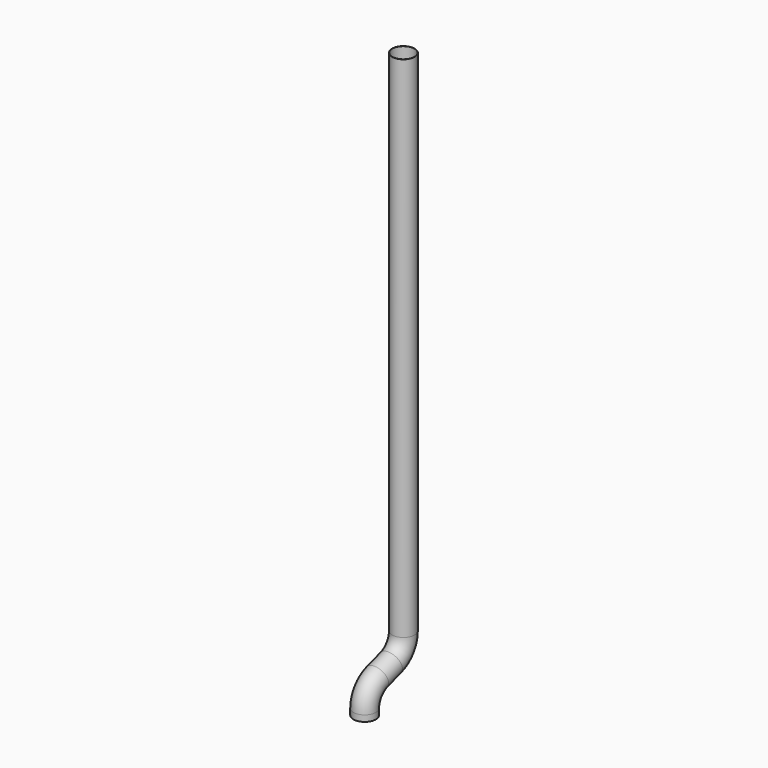
from build123d import *

# Parameters (mm, degrees)
F1_R   = 50
F1_R_2 = 49


with BuildPart() as f2:
    # F2: sweep along a path in F0
    with BuildLine(Plane.YZ) as f2_path:
        Line((0, 0), (0, -2257.590362))
        ThreePointArc((0, -2257.590362), (-19.098301, -2316.368887), (-69.098301, -2352.696014))
        Line((-69.098301, -2352.696014), (-145.586699, -2377.548601))
        ThreePointArc((-145.586699, -2377.548601), (-195.586699, -2413.875728), (-214.685, -2472.654253))
        Line((-214.685, -2472.654253), (-214.685, -2500))
    # F1 (on Top) → F2 (sweep)
    with BuildSketch(Plane.XY):
        Circle(F1_R)
        Circle(F1_R_2, mode=Mode.SUBTRACT)
    sweep(path=f2_path.line)


solid = f2.part
